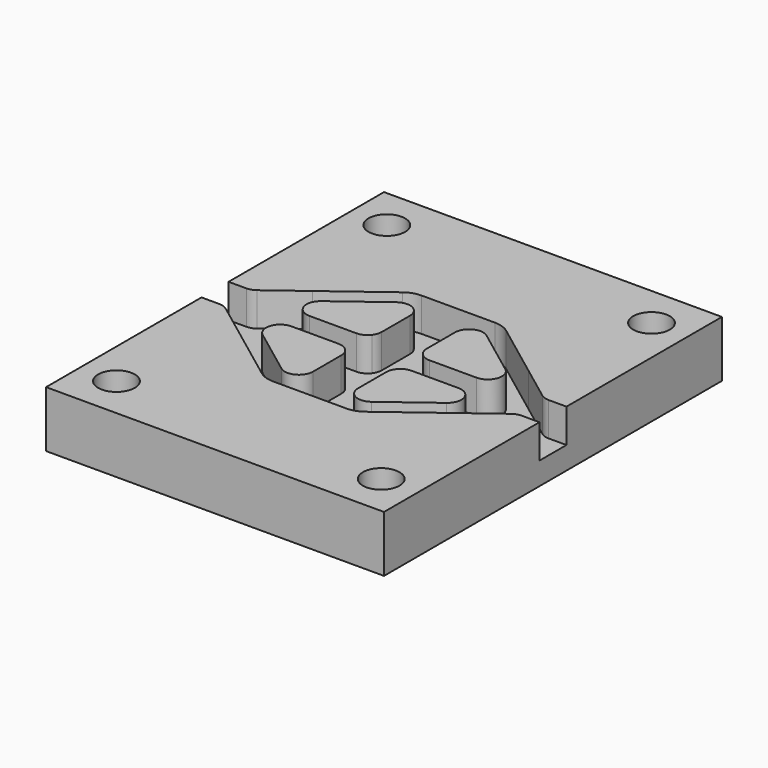
from build123d import *

# Parameters (mm, degrees)
F0_W     = 60
F0_H     = 75
F1_DEPTH = 10
F2_R     = 3.25
F3_DEPTH = 10.001
F5_DEPTH = 6


with BuildPart() as f1:
    # F0 (on Top) → F1 (new body)
    with BuildSketch(Plane.XY):
        Rectangle(F0_W, F0_H)
    extrude(amount=-F1_DEPTH)

    # F2 (on Top) → F3 (cut, through all)
    with BuildSketch(Plane.XY):
        with Locations((-23.5, 30)):
            Circle(F2_R)
        with Locations((23.5, 30)):
            Circle(F2_R)
        with Locations((-23.5, -30)):
            Circle(F2_R)
        with Locations((23.5, -30)):
            Circle(F2_R)
    extrude(amount=-F3_DEPTH, mode=Mode.SUBTRACT)

    # F4 (on face) → F5 (cut)
    with BuildSketch(Plane.XY):
        with BuildLine():
            Line((-30, 3), (-30, 0))
            Line((-30, 0), (-30, -3))
            Line((-30, -3), (-26.833333, -3))
            Line((-26.833333, -3), (-26, -3))
            Line((-26, -3), (-16.833333, -3))
            ThreePointArc((-16.833333, -3), (-15.951367, -2.263932), (-14.833333, -2))
            Line((-14.833333, -2), (-6.5, -2))
            ThreePointArc((-6.5, -2), (-5.381966, -2.263932), (-4.5, -3))
            Line((-4.5, -3), (-2.257359, -3))
            Line((-2.257359, -3), (2.257359, -3))
            Line((2.257359, -3), (4.5, -3))
            ThreePointArc((4.5, -3), (5.381966, -2.263932), (6.5, -2))
            Line((6.5, -2), (14.833333, -2))
            ThreePointArc((14.833333, -2), (15.951367, -2.263932), (16.833333, -3))
            Line((16.833333, -3), (26, -3))
            Line((26, -3), (26.833333, -3))
            Line((26.833333, -3), (30, -3))
            Line((30, -3), (30, 0))
            Line((30, 0), (30, 3))
            Line((30, 3), (26.833333, 3))
            Line((26.833333, 3), (26, 3))
            Line((26, 3), (25.333333, 3.5))
            Line((25.333333, 3.5), (19.2, 8.1))
            Line((19.2, 8.1), (9.2, 15.6))
            ThreePointArc((9.2, 15.6), (7.923025, 16.269075), (6.5, 16.5))
            Line((6.5, 16.5), (0, 16.5))
            Line((0, 16.5), (-6.5, 16.5))
            ThreePointArc((-6.5, 16.5), (-7.923025, 16.269075), (-9.2, 15.6))
            Line((-9.2, 15.6), (-19.2, 8.1))
            Line((-19.2, 8.1), (-25.333333, 3.5))
            Line((-25.333333, 3.5), (-26, 3))
            Line((-26, 3), (-26.833333, 3))
            Line((-26.833333, 3), (-30, 3))
        make_face()
        with BuildLine():
            ThreePointArc((-14.833333, 2), (-15.951367, 2.263932), (-16.833333, 3))
            ThreePointArc((-16.833333, 3), (-17.308207, 4.853553), (-16.333333, 6.5))
            Line((-16.333333, 6.5), (-8, 12.75))
            ThreePointArc((-8, 12.75), (-5.381966, 12.986068), (-4, 10.75))
            Line((-4, 10.75), (-4, 4.5))
            ThreePointArc((-4, 4.5), (-4.128292, 3.709431), (-4.5, 3))
            ThreePointArc((-4.5, 3), (-5.381966, 2.263932), (-6.5, 2))
            Line((-6.5, 2), (-14.833333, 2))
        make_face(mode=Mode.SUBTRACT)
        with BuildLine():
            ThreePointArc((6.5, 2), (5.381966, 2.263932), (4.5, 3))
            ThreePointArc((4.5, 3), (4.128292, 3.709431), (4, 4.5))
            Line((4, 4.5), (4, 10.75))
            ThreePointArc((4, 10.75), (5.381966, 12.986068), (8, 12.75))
            Line((8, 12.75), (16.333333, 6.5))
            ThreePointArc((16.333333, 6.5), (17.205042, 3.709431), (14.833333, 2))
            Line((14.833333, 2), (6.5, 2))
        make_face(mode=Mode.SUBTRACT)
        with BuildLine():
            ThreePointArc((-25.333333, 3.5), (-26.042764, 3.128292), (-26.833333, 3))
            Line((-26.833333, 3), (-26, 3))
            Line((-26, 3), (-25.333333, 3.5))
        make_face()
        with BuildLine():
            Line((-26, -3), (-26.833333, -3))
            ThreePointArc((-26.833333, -3), (-26.042764, -3.128292), (-25.333333, -3.5))
            Line((-25.333333, -3.5), (-26, -3))
        make_face()
        with BuildLine():
            Line((-16.833333, -3), (-26, -3))
            Line((-26, -3), (-25.333333, -3.5))
            Line((-25.333333, -3.5), (-19.2, -8.1))
            Line((-19.2, -8.1), (-9.2, -15.6))
            ThreePointArc((-9.2, -15.6), (-7.923025, -16.269075), (-6.5, -16.5))
            Line((-6.5, -16.5), (0, -16.5))
            Line((0, -16.5), (6.5, -16.5))
            ThreePointArc((6.5, -16.5), (7.923025, -16.269075), (9.2, -15.6))
            Line((9.2, -15.6), (19.2, -8.1))
            Line((19.2, -8.1), (25.333333, -3.5))
            Line((25.333333, -3.5), (26, -3))
            Line((26, -3), (16.833333, -3))
            ThreePointArc((16.833333, -3), (17.308207, -4.853553), (16.333333, -6.5))
            Line((16.333333, -6.5), (8, -12.75))
            ThreePointArc((8, -12.75), (5.381966, -12.986068), (4, -10.75))
            Line((4, -10.75), (4, -4.5))
            ThreePointArc((4, -4.5), (4.128292, -3.709431), (4.5, -3))
            Line((4.5, -3), (2.257359, -3))
            Line((2.257359, -3), (-2.257359, -3))
            Line((-2.257359, -3), (-4.5, -3))
            ThreePointArc((-4.5, -3), (-4.128292, -3.709431), (-4, -4.5))
            Line((-4, -4.5), (-4, -10.75))
            ThreePointArc((-4, -10.75), (-5.381966, -12.986068), (-8, -12.75))
            Line((-8, -12.75), (-16.333333, -6.5))
            ThreePointArc((-16.333333, -6.5), (-17.308207, -4.853553), (-16.833333, -3))
        make_face()
        with BuildLine():
            Line((26.833333, -3), (26, -3))
            Line((26, -3), (25.333333, -3.5))
            ThreePointArc((25.333333, -3.5), (26.042764, -3.128292), (26.833333, -3))
        make_face()
        with BuildLine():
            ThreePointArc((26.833333, 3), (26.042764, 3.128292), (25.333333, 3.5))
            Line((25.333333, 3.5), (26, 3))
            Line((26, 3), (26.833333, 3))
        make_face()
    extrude(amount=-F5_DEPTH, mode=Mode.SUBTRACT)


solid = f1.part
